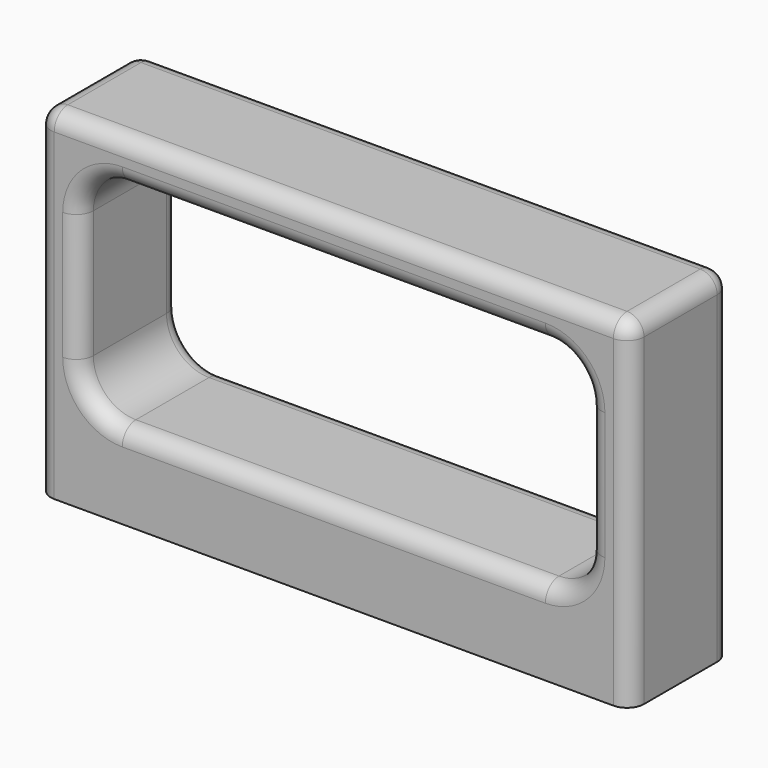
from build123d import *

# Parameters (mm, degrees)
F0_W     = 69.75
F0_H     = 14.75
F1_DEPTH = 40
F2_R     = 2
F4_DEPTH = 14.751
F7_R     = 2


with BuildPart() as f1:
    # F0 (on Top) → F1 (new body)
    with BuildSketch(Plane.XY):
        with Locations((34.875, 0)):
            Rectangle(F0_W, F0_H)
    extrude(amount=F1_DEPTH)

    # F2
    f2_edges = [f1.edges().sort_by_distance(p)[0] for p in [
        (34.875, -7.375, 40),
        (34.875, 7.375, 40),
        (69.75, 0, 40),
        (0, 0, 40),
        (69.75, -7.375, 20),
        (69.75, 7.375, 20),
        (0, -7.375, 20),
        (0, 7.375, 20),
    ]]
    fillet(f2_edges, radius=F2_R)

    # F3 (on face) → F4 (cut, through all)
    with BuildSketch(Plane.XZ.offset(7.375)):
        with BuildLine():
            Line((59.75, 35), (10, 35))
            ThreePointArc((10, 35), (6.464466, 33.535534), (5, 30))
            Line((5, 30), (5, 15))
            ThreePointArc((5, 15), (6.464466, 11.464466), (10, 10))
            Line((10, 10), (59.75, 10))
            ThreePointArc((59.75, 10), (63.285534, 11.464466), (64.75, 15))
            Line((64.75, 15), (64.75, 30))
            ThreePointArc((64.75, 30), (63.285534, 33.535534), (59.75, 35))
        make_face()
    extrude(amount=-F4_DEPTH, mode=Mode.SUBTRACT)

    # F7
    f7_edges = [f1.edges().sort_by_distance(p)[0] for p in [
        (34.875, -7.375, 10),
        (34.875, 7.375, 10),
    ]]
    fillet(f7_edges, radius=F7_R)


solid = f1.part
